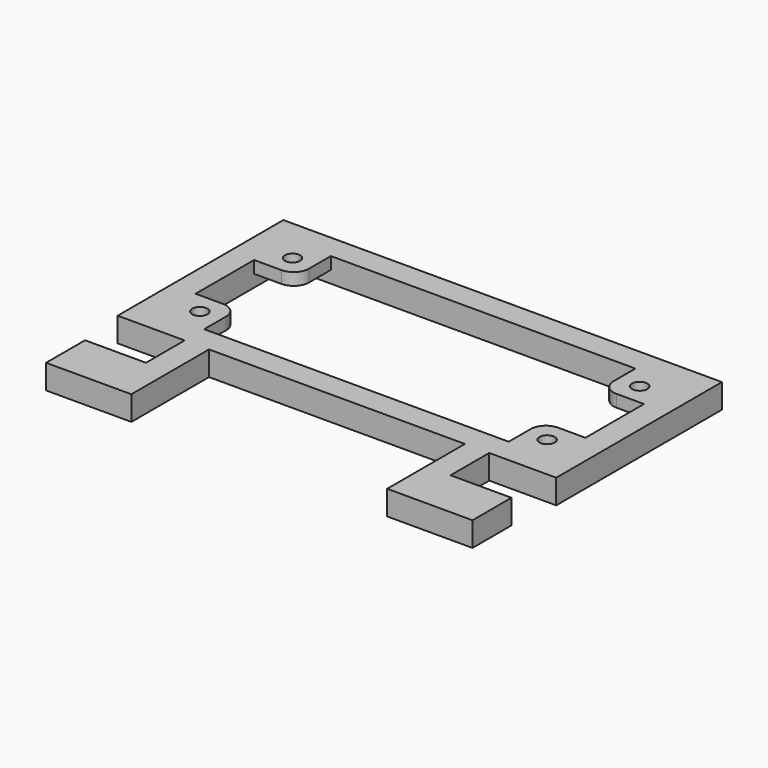
from build123d import *

# Parameters (mm, degrees)
F1_DEPTH = 4
F3_R     = 1.25
F4_DEPTH = 2


with BuildPart() as f1:
    # F0 (on Top) → F1 (new body)
    with BuildSketch(Plane.XY):
        Polygon((21, -30), (25, -30), (35, -30), (35, -22), (25, -22), (25, -14.063702), (36, -14.063702), (36, 19.936298), (0, 19.936298), (0, 15.936298), (32, 15.936298), (32, -10.063702), (0, -10.063702), (0, -14.063702), (21, -14.063702), align=None)
    extrude(amount=F1_DEPTH)

    # F2: F1 across plane


with BuildPart() as f1_1:
    add(f1.part)
    add(f1.part.mirror(Plane.YZ))

    # F3 (on face) → F4 (join)
    with BuildSketch(Plane.XY.offset(4)):
        with BuildLine():
            Line((-32, -3.063702), (-32, -10.063702))
            Line((-32, -10.063702), (-25, -10.063702))
            Line((-25, -10.063702), (-25, -5.563702))
            ThreePointArc((-25, -5.563702), (-25.732233, -3.795935), (-27.5, -3.063702))
            Line((-27.5, -3.063702), (-32, -3.063702))
        make_face()
        with Locations((-28.5, -6.563702)):
            Circle(F3_R, mode=Mode.SUBTRACT)
        with BuildLine():
            Line((-25, 15.936298), (-32, 15.936298))
            Line((-32, 15.936298), (-32, 8.936298))
            Line((-32, 8.936298), (-27.5, 8.936298))
            ThreePointArc((-27.5, 8.936298), (-25.732233, 9.668531), (-25, 11.436298))
            Line((-25, 11.436298), (-25, 15.936298))
        make_face()
        with Locations((-28.5, 12.436298)):
            Circle(F3_R, mode=Mode.SUBTRACT)
        with BuildLine():
            Line((32, 8.936298), (32, 15.936298))
            Line((32, 15.936298), (25, 15.936298))
            Line((25, 15.936298), (25, 11.436298))
            ThreePointArc((25, 11.436298), (25.732233, 9.668531), (27.5, 8.936298))
            Line((27.5, 8.936298), (32, 8.936298))
        make_face()
        with Locations((28.5, 12.436298)):
            Circle(F3_R, mode=Mode.SUBTRACT)
        with BuildLine():
            Line((25, -10.063702), (32, -10.063702))
            Line((32, -10.063702), (32, -3.063702))
            Line((32, -3.063702), (27.5, -3.063702))
            ThreePointArc((27.5, -3.063702), (25.732233, -3.795935), (25, -5.563702))
            Line((25, -5.563702), (25, -10.063702))
        make_face()
        with Locations((28.5, -6.563702)):
            Circle(F3_R, mode=Mode.SUBTRACT)
    extrude(amount=-F4_DEPTH)


solid = f1_1.part
